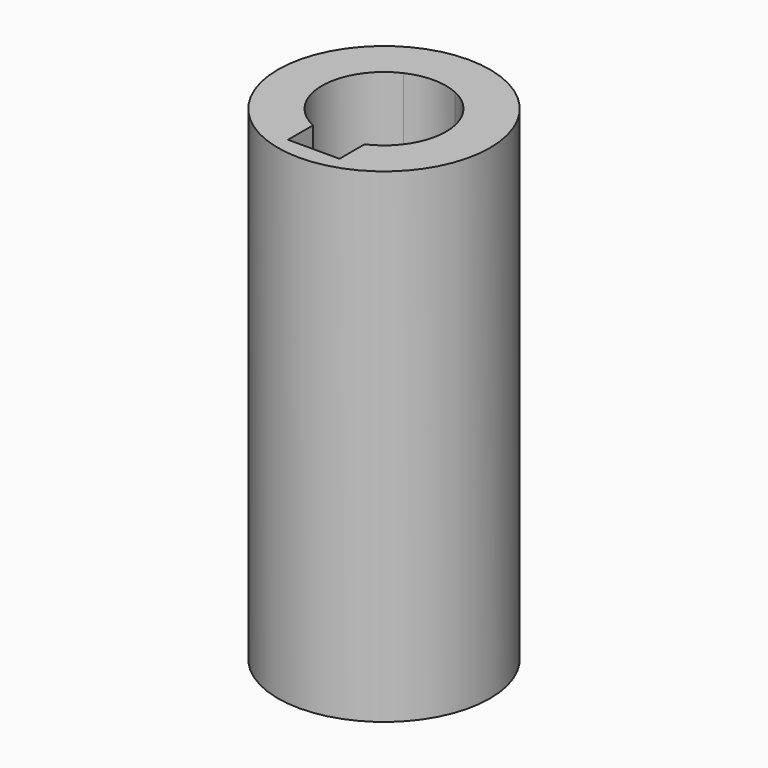
from build123d import *

# Parameters (mm, degrees)
F0_R     = 17.5
F1_DEPTH = 80
F3_DEPTH = 63.5


with BuildPart() as f1:
    # F0 (on Top) → F1 (new body)
    with BuildSketch(Plane.XY):
        Circle(F0_R)
    extrude(amount=F1_DEPTH)

    # F2 (on face) → F3 (cut)
    with BuildSketch(Plane.XY.offset(80)):
        with BuildLine():
            Line((4.25, -14.4989), (4.25, -9.3273790531))
            ThreePointArc((4.25, -9.3273790531), (0, -10.25), (-4.25, -9.3273790531))
            Line((-4.25, -9.3273790531), (-4.25, -14.4989))
            Line((-4.25, -14.4989), (4.25, -14.4989))
        make_face()
        with BuildLine():
            ThreePointArc((4.25, -9.3273790531), (8.6204698248, -5.5452682532), (10.25, 0))
            ThreePointArc((10.25, 0), (8.6204698248, 5.5452682532), (4.25, 9.3273790531))
            Line((4.25, 9.3273790531), (4.25, -9.3273790531))
        make_face()
        with BuildLine():
            Line((4.25, -9.3273790531), (4.25, 9.3273790531))
            ThreePointArc((4.25, 9.3273790531), (0, 10.25), (-4.25, 9.3273790531))
            Line((-4.25, 9.3273790531), (-4.25, -9.3273790531))
            ThreePointArc((-4.25, -9.3273790531), (0, -10.25), (4.25, -9.3273790531))
        make_face()
        with BuildLine():
            Line((-4.25, -9.3273790531), (-4.25, 9.3273790531))
            ThreePointArc((-4.25, 9.3273790531), (-10.25, 0), (-4.25, -9.3273790531))
        make_face()
    extrude(amount=-F3_DEPTH, mode=Mode.SUBTRACT)


solid = f1.part
